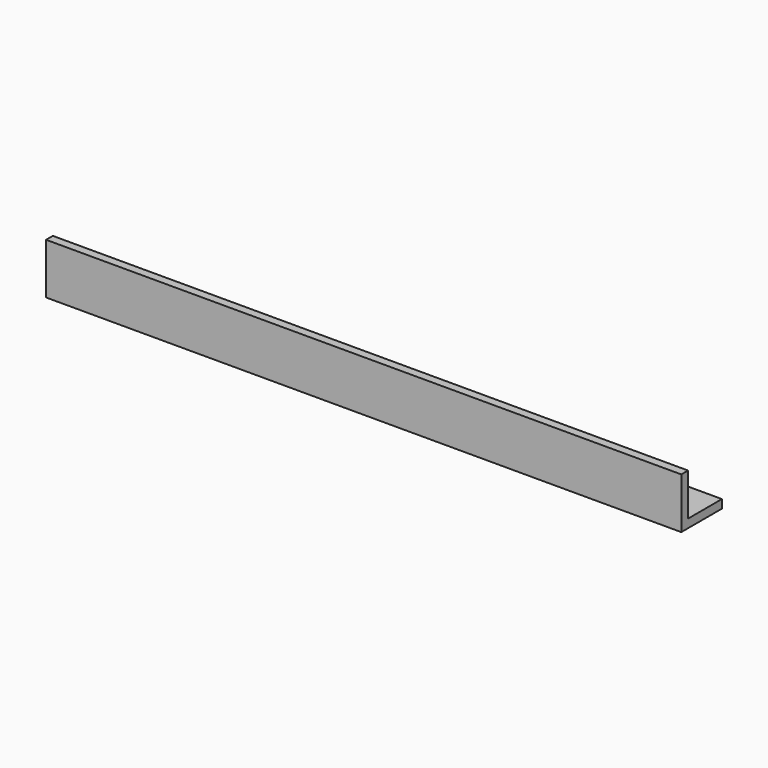
from build123d import *

# Parameters (mm, degrees)
F0_W     = 150
F0_H     = 10
F0_H_2   = 2
F1_DEPTH = 2
F2_DEPTH = 10


with BuildPart() as f1:
    # F0 (on Top) → F1 (new body)
    with BuildSketch(Plane.XY):
        with Locations((75, 5)):
            Rectangle(F0_W, F0_H)
        with Locations((75, -1)):
            Rectangle(F0_W, F0_H_2)
    extrude(amount=-F1_DEPTH)

    # F0 (on Top) → F2 (join)
    with BuildSketch(Plane.XY):
        with Locations((75, -1)):
            Rectangle(F0_W, F0_H_2)
    extrude(amount=F2_DEPTH)


solid = f1.part
